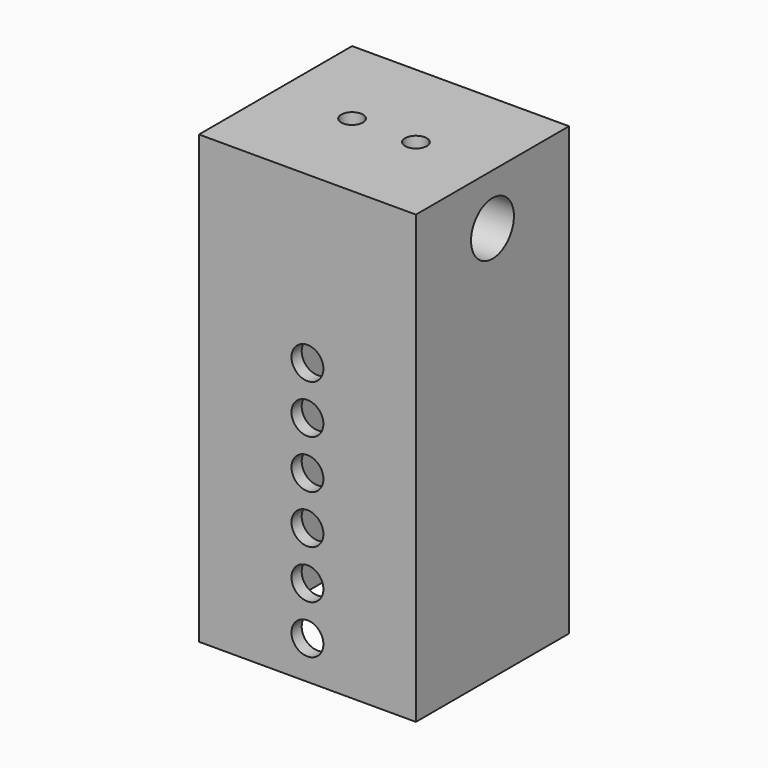
from build123d import *

# Parameters (mm, degrees)
F0_W      = 43.18
F0_H      = 38.1
F0_W_2    = 38.1
F0_H_2    = 33.02
F1_DEPTH  = 44.45
F2_W      = 38.1
F2_H      = 33.02
F2_R      = 2.159
F3_DEPTH  = 25.4
F4_R      = 2.159
F5_DEPTH  = 5.08
F6_R      = 3.175
F7_DEPTH  = 16.256
F8_R      = 5.08
F9_DEPTH  = 11.938
F10_R     = 5.334
F11_DEPTH = 11.938


with BuildPart() as f1:
    # F0 (on Top) → F1 (new body, symmetric)
    with BuildSketch(Plane.XY):
        Rectangle(F0_W, F0_H)
        Rectangle(F0_W_2, F0_H_2, mode=Mode.SUBTRACT)
    extrude(amount=F1_DEPTH, both=True)

    # F2 (on face) → F3 (join)
    with BuildSketch(Plane.XY.offset(44.45)):
        Rectangle(F2_W, F2_H)
        with Locations((-6.35, 0)):
            Circle(F2_R, mode=Mode.SUBTRACT)
        with Locations((6.35, 0)):
            Circle(F2_R, mode=Mode.SUBTRACT)
        Rectangle(F2_W, F2_H)
        with Locations((-6.35, 0)):
            Circle(F2_R, mode=Mode.SUBTRACT)
        with Locations((6.35, 0)):
            Circle(F2_R, mode=Mode.SUBTRACT)
    extrude(amount=-F3_DEPTH)

    # F4 (on face) → F5 (cut)
    with BuildSketch(Plane(origin=(0, 0, 19.05), x_dir=(1, 0, 0), z_dir=(0, 0, -1))):
        Polygon((9.017, 4.6193795038), (3.683, 4.6193795038), (1.016, 0), (3.683, -4.6193795038), (9.017, -4.6193795038), (11.684, 0), align=None)
        with Locations((6.35, 0)):
            Circle(F4_R, mode=Mode.SUBTRACT)
        Polygon((-3.683, 4.6193795038), (-9.017, 4.6193795038), (-11.684, 0), (-9.017, -4.6193795038), (-3.683, -4.6193795038), (-1.016, 0), align=None)
        with Locations((-6.35, 0)):
            Circle(F4_R, mode=Mode.SUBTRACT)
    extrude(amount=-F5_DEPTH, mode=Mode.SUBTRACT)

    # F6 (on face) → F7 (cut)
    with BuildSketch(Plane.XZ.offset(19.05)):
        with Locations((0, 11.43)):
            Circle(F6_R)
        with Locations((0, 1.778)):
            Circle(F6_R)
        with Locations((0, -7.874)):
            Circle(F6_R)
        with Locations((0, -17.526)):
            Circle(F6_R)
        with Locations((0, -27.178)):
            Circle(F6_R)
        with Locations((0, -36.83)):
            Circle(F6_R)
    extrude(amount=-F7_DEPTH, mode=Mode.SUBTRACT)

    # F8 (on face) → F9 (cut)
    with BuildSketch(Plane(origin=(-21.59, 0, 0), x_dir=(0, -1, 0), z_dir=(-1, 0, 0))):
        with Locations((0, 34.29)):
            Circle(F8_R)
    extrude(amount=-F9_DEPTH, mode=Mode.SUBTRACT)

    # F10 (on face) → F11 (cut)
    with BuildSketch(Plane.YZ.offset(21.59)):
        with Locations((0, 34.29)):
            Circle(F10_R)
    extrude(amount=-F11_DEPTH, mode=Mode.SUBTRACT)


solid = f1.part
